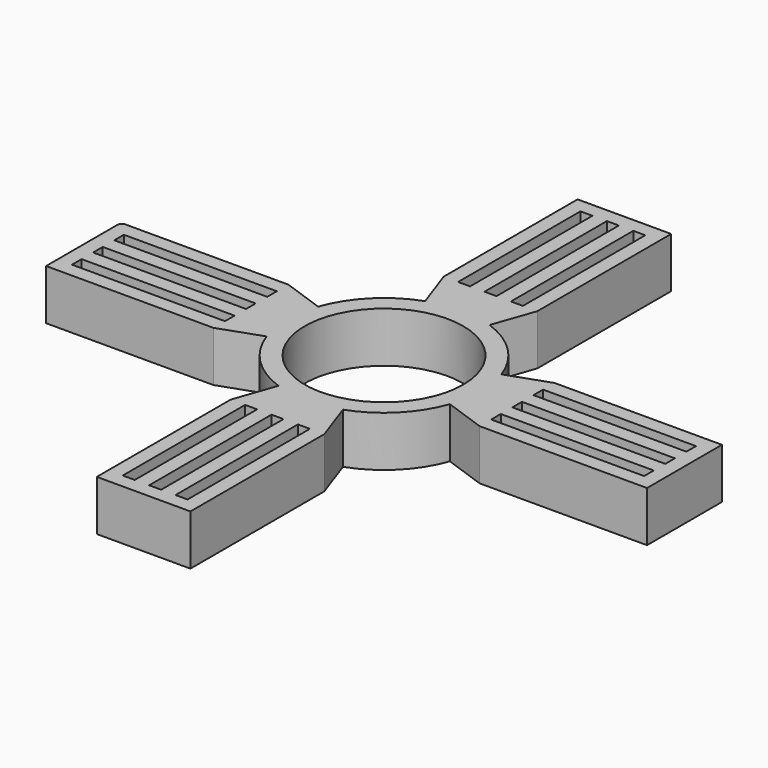
from build123d import *

# Parameters (mm, degrees)
F0_R     = 11.015
F1_DEPTH = 7
F2_DEPTH = 7
F3_DEPTH = 7
F0_W     = 2
F0_H     = 21.26
F0_W_2   = 21.26
F0_H_2   = 2
F4_DEPTH = 7


with BuildPart() as f1:
    # F0 (on Top) → F1 (new body)
    with BuildSketch(Plane.XY):
        with BuildLine():
            ThreePointArc((12.735635, 4.478125), (13.307537, 2.271445), (13.5, 0))
            Line((13.5, 0), (18.5, 0))
            Line((18.5, 0), (18.5, 0.835))
            Line((18.5, 0.835), (18.5, 2.835))
            Line((18.5, 2.835), (18.5, 4.505))
            Line((18.5, 4.505), (39.76, 4.505))
            Line((39.76, 4.505), (39.76, 6.505))
            Line((39.76, 6.505), (18.5, 6.505))
            Line((18.5, 6.505), (12.735635, 4.478125))
        make_face()
        with BuildLine():
            ThreePointArc((0, 13.5), (2.271445, 13.307537), (4.478125, 12.735635))
            Line((4.478125, 12.735635), (6.505, 18.5))
            Line((6.505, 18.5), (6.505, 39.76))
            Line((6.505, 39.76), (4.505, 39.76))
            Line((4.505, 39.76), (4.505, 18.5))
            Line((4.505, 18.5), (2.835, 18.5))
            Line((2.835, 18.5), (0.835, 18.5))
            Line((0.835, 18.5), (0, 18.5))
            Line((0, 18.5), (0, 13.5))
        make_face()
        with BuildLine():
            ThreePointArc((-4.478125, 12.735635), (-2.271445, 13.307537), (0, 13.5))
            Line((0, 13.5), (0, 18.5))
            Line((0, 18.5), (-0.835, 18.5))
            Line((-0.835, 18.5), (-2.835, 18.5))
            Line((-2.835, 18.5), (-4.505, 18.5))
            Line((-4.505, 18.5), (-4.505, 39.76))
            Line((-4.505, 39.76), (-6.505, 39.76))
            Line((-6.505, 39.76), (-6.505, 18.5))
            Line((-6.505, 18.5), (-4.478125, 12.735635))
        make_face()
        with BuildLine():
            ThreePointArc((-13.5, 0), (-13.307537, 2.271445), (-12.735635, 4.478125))
            Line((-12.735635, 4.478125), (-18.5, 6.505))
            Line((-18.5, 6.505), (-39.76, 6.505))
            Line((-39.76, 6.505), (-39.76, 4.505))
            Line((-39.76, 4.505), (-18.5, 4.505))
            Line((-18.5, 4.505), (-18.5, 2.835))
            Line((-18.5, 2.835), (-18.5, 0.835))
            Line((-18.5, 0.835), (-18.5, 0))
            Line((-18.5, 0), (-13.5, 0))
        make_face()
        with BuildLine():
            Line((-18.5, -6.505), (-12.735635, -4.478125))
            ThreePointArc((-12.735635, -4.478125), (-13.307537, -2.271445), (-13.5, 0))
            Line((-13.5, 0), (-18.5, 0))
            Line((-18.5, 0), (-18.5, -0.835))
            Line((-18.5, -0.835), (-18.5, -2.835))
            Line((-18.5, -2.835), (-18.5, -4.505))
            Line((-18.5, -4.505), (-39.76, -4.505))
            Line((-39.76, -4.505), (-39.76, -6.505))
            Line((-39.76, -6.505), (-18.5, -6.505))
        make_face()
        with BuildLine():
            Line((0, -18.5), (0, -13.5))
            ThreePointArc((0, -13.5), (-2.271445, -13.307537), (-4.478125, -12.735635))
            Line((-4.478125, -12.735635), (-6.505, -18.5))
            Line((-6.505, -18.5), (-6.505, -39.76))
            Line((-6.505, -39.76), (-4.505, -39.76))
            Line((-4.505, -39.76), (-4.505, -18.5))
            Line((-4.505, -18.5), (-2.835, -18.5))
            Line((-2.835, -18.5), (-0.835, -18.5))
            Line((-0.835, -18.5), (0, -18.5))
        make_face()
        with BuildLine():
            Line((6.505, -18.5), (4.478125, -12.735635))
            ThreePointArc((4.478125, -12.735635), (2.271445, -13.307537), (0, -13.5))
            Line((0, -13.5), (0, -18.5))
            Line((0, -18.5), (0.835, -18.5))
            Line((0.835, -18.5), (2.835, -18.5))
            Line((2.835, -18.5), (4.505, -18.5))
            Line((4.505, -18.5), (4.505, -39.76))
            Line((4.505, -39.76), (6.505, -39.76))
            Line((6.505, -39.76), (6.505, -18.5))
        make_face()
        with BuildLine():
            Line((18.5, 0), (13.5, 0))
            ThreePointArc((13.5, 0), (13.307537, -2.271445), (12.735635, -4.478125))
            Line((12.735635, -4.478125), (18.5, -6.505))
            Line((18.5, -6.505), (39.76, -6.505))
            Line((39.76, -6.505), (39.76, -4.505))
            Line((39.76, -4.505), (18.5, -4.505))
            Line((18.5, -4.505), (18.5, -2.835))
            Line((18.5, -2.835), (18.5, -0.835))
            Line((18.5, -0.835), (18.5, 0))
        make_face()
        Polygon((4.505, 39.76), (6.505, 39.76), (6.505, 41.76), (-6.505, 41.76), (-6.505, 39.76), (-4.505, 39.76), (-2.835, 39.76), (-0.835, 39.76), (0, 39.76), (0.835, 39.76), (2.835, 39.76), align=None)
        with BuildLine():
            Line((-39.76, 4.505), (-39.76, 6.505))
            Line((-39.76, 6.505), (-41.155497, 6.505))
            ThreePointArc((-41.155497, 6.505), (-41.582945, 6.327945), (-41.76, 5.900497))
            Line((-41.76, 5.900497), (-41.76, -6.505))
            Line((-41.76, -6.505), (-39.76, -6.505))
            Line((-39.76, -6.505), (-39.76, -4.505))
            Line((-39.76, -4.505), (-39.76, -2.835))
            Line((-39.76, -2.835), (-39.76, -0.835))
            Line((-39.76, -0.835), (-39.76, 0))
            Line((-39.76, 0), (-39.76, 0.835))
            Line((-39.76, 0.835), (-39.76, 2.835))
            Line((-39.76, 2.835), (-39.76, 4.505))
        make_face()
        Polygon((6.505, -41.76), (6.505, -39.76), (4.505, -39.76), (2.835, -39.76), (0.835, -39.76), (0, -39.76), (-0.835, -39.76), (-2.835, -39.76), (-4.505, -39.76), (-6.505, -39.76), (-6.505, -41.76), align=None)
        Polygon((41.76, 6.505), (39.76, 6.505), (39.76, 4.505), (39.76, 2.835), (39.76, 0.835), (39.76, 0), (39.76, -0.835), (39.76, -2.835), (39.76, -4.505), (39.76, -6.505), (41.76, -6.505), align=None)
        with BuildLine():
            ThreePointArc((12.735635, -4.478125), (13.307537, -2.271445), (13.5, 0))
            ThreePointArc((13.5, 0), (13.307537, 2.271445), (12.735635, 4.478125))
            ThreePointArc((12.735635, 4.478125), (9.545942, 9.545942), (4.478125, 12.735635))
            ThreePointArc((4.478125, 12.735635), (2.271445, 13.307537), (0, 13.5))
            ThreePointArc((0, 13.5), (-2.271445, 13.307537), (-4.478125, 12.735635))
            ThreePointArc((-4.478125, 12.735635), (-9.545942, 9.545942), (-12.735635, 4.478125))
            ThreePointArc((-12.735635, 4.478125), (-13.307537, 2.271445), (-13.5, 0))
            ThreePointArc((-13.5, 0), (-13.307537, -2.271445), (-12.735635, -4.478125))
            ThreePointArc((-12.735635, -4.478125), (-9.545942, -9.545942), (-4.478125, -12.735635))
            ThreePointArc((-4.478125, -12.735635), (-2.271445, -13.307537), (0, -13.5))
            ThreePointArc((0, -13.5), (2.271445, -13.307537), (4.478125, -12.735635))
            ThreePointArc((4.478125, -12.735635), (9.545942, -9.545942), (12.735635, -4.478125))
        make_face()
        Circle(F0_R, mode=Mode.SUBTRACT)
    extrude(amount=F1_DEPTH)

    # F0 (on Top) → F2 (join)
    with BuildSketch(Plane.XY):
        with BuildLine():
            ThreePointArc((12.735635, 4.478125), (13.307537, 2.271445), (13.5, 0))
            Line((13.5, 0), (18.5, 0))
            Line((18.5, 0), (18.5, 0.835))
            Line((18.5, 0.835), (18.5, 2.835))
            Line((18.5, 2.835), (18.5, 4.505))
            Line((18.5, 4.505), (39.76, 4.505))
            Line((39.76, 4.505), (39.76, 6.505))
            Line((39.76, 6.505), (18.5, 6.505))
            Line((18.5, 6.505), (12.735635, 4.478125))
        make_face()
        with BuildLine():
            ThreePointArc((0, 13.5), (2.271445, 13.307537), (4.478125, 12.735635))
            Line((4.478125, 12.735635), (6.505, 18.5))
            Line((6.505, 18.5), (6.505, 39.76))
            Line((6.505, 39.76), (4.505, 39.76))
            Line((4.505, 39.76), (4.505, 18.5))
            Line((4.505, 18.5), (2.835, 18.5))
            Line((2.835, 18.5), (0.835, 18.5))
            Line((0.835, 18.5), (0, 18.5))
            Line((0, 18.5), (0, 13.5))
        make_face()
        with BuildLine():
            ThreePointArc((-4.478125, 12.735635), (-2.271445, 13.307537), (0, 13.5))
            Line((0, 13.5), (0, 18.5))
            Line((0, 18.5), (-0.835, 18.5))
            Line((-0.835, 18.5), (-2.835, 18.5))
            Line((-2.835, 18.5), (-4.505, 18.5))
            Line((-4.505, 18.5), (-4.505, 39.76))
            Line((-4.505, 39.76), (-6.505, 39.76))
            Line((-6.505, 39.76), (-6.505, 18.5))
            Line((-6.505, 18.5), (-4.478125, 12.735635))
        make_face()
        with BuildLine():
            ThreePointArc((-13.5, 0), (-13.307537, 2.271445), (-12.735635, 4.478125))
            Line((-12.735635, 4.478125), (-18.5, 6.505))
            Line((-18.5, 6.505), (-39.76, 6.505))
            Line((-39.76, 6.505), (-39.76, 4.505))
            Line((-39.76, 4.505), (-18.5, 4.505))
            Line((-18.5, 4.505), (-18.5, 2.835))
            Line((-18.5, 2.835), (-18.5, 0.835))
            Line((-18.5, 0.835), (-18.5, 0))
            Line((-18.5, 0), (-13.5, 0))
        make_face()
        with BuildLine():
            Line((-18.5, -6.505), (-12.735635, -4.478125))
            ThreePointArc((-12.735635, -4.478125), (-13.307537, -2.271445), (-13.5, 0))
            Line((-13.5, 0), (-18.5, 0))
            Line((-18.5, 0), (-18.5, -0.835))
            Line((-18.5, -0.835), (-18.5, -2.835))
            Line((-18.5, -2.835), (-18.5, -4.505))
            Line((-18.5, -4.505), (-39.76, -4.505))
            Line((-39.76, -4.505), (-39.76, -6.505))
            Line((-39.76, -6.505), (-18.5, -6.505))
        make_face()
        with BuildLine():
            Line((0, -18.5), (0, -13.5))
            ThreePointArc((0, -13.5), (-2.271445, -13.307537), (-4.478125, -12.735635))
            Line((-4.478125, -12.735635), (-6.505, -18.5))
            Line((-6.505, -18.5), (-6.505, -39.76))
            Line((-6.505, -39.76), (-4.505, -39.76))
            Line((-4.505, -39.76), (-4.505, -18.5))
            Line((-4.505, -18.5), (-2.835, -18.5))
            Line((-2.835, -18.5), (-0.835, -18.5))
            Line((-0.835, -18.5), (0, -18.5))
        make_face()
        with BuildLine():
            Line((6.505, -18.5), (4.478125, -12.735635))
            ThreePointArc((4.478125, -12.735635), (2.271445, -13.307537), (0, -13.5))
            Line((0, -13.5), (0, -18.5))
            Line((0, -18.5), (0.835, -18.5))
            Line((0.835, -18.5), (2.835, -18.5))
            Line((2.835, -18.5), (4.505, -18.5))
            Line((4.505, -18.5), (4.505, -39.76))
            Line((4.505, -39.76), (6.505, -39.76))
            Line((6.505, -39.76), (6.505, -18.5))
        make_face()
        with BuildLine():
            Line((18.5, 0), (13.5, 0))
            ThreePointArc((13.5, 0), (13.307537, -2.271445), (12.735635, -4.478125))
            Line((12.735635, -4.478125), (18.5, -6.505))
            Line((18.5, -6.505), (39.76, -6.505))
            Line((39.76, -6.505), (39.76, -4.505))
            Line((39.76, -4.505), (18.5, -4.505))
            Line((18.5, -4.505), (18.5, -2.835))
            Line((18.5, -2.835), (18.5, -0.835))
            Line((18.5, -0.835), (18.5, 0))
        make_face()
        Polygon((4.505, 39.76), (6.505, 39.76), (6.505, 41.76), (-6.505, 41.76), (-6.505, 39.76), (-4.505, 39.76), (-2.835, 39.76), (-0.835, 39.76), (0, 39.76), (0.835, 39.76), (2.835, 39.76), align=None)
        with BuildLine():
            Line((-39.76, 4.505), (-39.76, 6.505))
            Line((-39.76, 6.505), (-41.155497, 6.505))
            ThreePointArc((-41.155497, 6.505), (-41.582945, 6.327945), (-41.76, 5.900497))
            Line((-41.76, 5.900497), (-41.76, -6.505))
            Line((-41.76, -6.505), (-39.76, -6.505))
            Line((-39.76, -6.505), (-39.76, -4.505))
            Line((-39.76, -4.505), (-39.76, -2.835))
            Line((-39.76, -2.835), (-39.76, -0.835))
            Line((-39.76, -0.835), (-39.76, 0))
            Line((-39.76, 0), (-39.76, 0.835))
            Line((-39.76, 0.835), (-39.76, 2.835))
            Line((-39.76, 2.835), (-39.76, 4.505))
        make_face()
        Polygon((6.505, -41.76), (6.505, -39.76), (4.505, -39.76), (2.835, -39.76), (0.835, -39.76), (0, -39.76), (-0.835, -39.76), (-2.835, -39.76), (-4.505, -39.76), (-6.505, -39.76), (-6.505, -41.76), align=None)
        Polygon((41.76, 6.505), (39.76, 6.505), (39.76, 4.505), (39.76, 2.835), (39.76, 0.835), (39.76, 0), (39.76, -0.835), (39.76, -2.835), (39.76, -4.505), (39.76, -6.505), (41.76, -6.505), align=None)
        with BuildLine():
            ThreePointArc((12.735635, -4.478125), (13.307537, -2.271445), (13.5, 0))
            ThreePointArc((13.5, 0), (13.307537, 2.271445), (12.735635, 4.478125))
            ThreePointArc((12.735635, 4.478125), (9.545942, 9.545942), (4.478125, 12.735635))
            ThreePointArc((4.478125, 12.735635), (2.271445, 13.307537), (0, 13.5))
            ThreePointArc((0, 13.5), (-2.271445, 13.307537), (-4.478125, 12.735635))
            ThreePointArc((-4.478125, 12.735635), (-9.545942, 9.545942), (-12.735635, 4.478125))
            ThreePointArc((-12.735635, 4.478125), (-13.307537, 2.271445), (-13.5, 0))
            ThreePointArc((-13.5, 0), (-13.307537, -2.271445), (-12.735635, -4.478125))
            ThreePointArc((-12.735635, -4.478125), (-9.545942, -9.545942), (-4.478125, -12.735635))
            ThreePointArc((-4.478125, -12.735635), (-2.271445, -13.307537), (0, -13.5))
            ThreePointArc((0, -13.5), (2.271445, -13.307537), (4.478125, -12.735635))
            ThreePointArc((4.478125, -12.735635), (9.545942, -9.545942), (12.735635, -4.478125))
        make_face()
        Circle(F0_R, mode=Mode.SUBTRACT)
    extrude(amount=F2_DEPTH)

    # F0 (on Top) → F3 (join)
    with BuildSketch(Plane.XY):
        with BuildLine():
            ThreePointArc((12.735635, 4.478125), (13.307537, 2.271445), (13.5, 0))
            Line((13.5, 0), (18.5, 0))
            Line((18.5, 0), (18.5, 0.835))
            Line((18.5, 0.835), (18.5, 2.835))
            Line((18.5, 2.835), (18.5, 4.505))
            Line((18.5, 4.505), (39.76, 4.505))
            Line((39.76, 4.505), (39.76, 6.505))
            Line((39.76, 6.505), (18.5, 6.505))
            Line((18.5, 6.505), (12.735635, 4.478125))
        make_face()
        with BuildLine():
            ThreePointArc((0, 13.5), (2.271445, 13.307537), (4.478125, 12.735635))
            Line((4.478125, 12.735635), (6.505, 18.5))
            Line((6.505, 18.5), (6.505, 39.76))
            Line((6.505, 39.76), (4.505, 39.76))
            Line((4.505, 39.76), (4.505, 18.5))
            Line((4.505, 18.5), (2.835, 18.5))
            Line((2.835, 18.5), (0.835, 18.5))
            Line((0.835, 18.5), (0, 18.5))
            Line((0, 18.5), (0, 13.5))
        make_face()
        with BuildLine():
            ThreePointArc((-4.478125, 12.735635), (-2.271445, 13.307537), (0, 13.5))
            Line((0, 13.5), (0, 18.5))
            Line((0, 18.5), (-0.835, 18.5))
            Line((-0.835, 18.5), (-2.835, 18.5))
            Line((-2.835, 18.5), (-4.505, 18.5))
            Line((-4.505, 18.5), (-4.505, 39.76))
            Line((-4.505, 39.76), (-6.505, 39.76))
            Line((-6.505, 39.76), (-6.505, 18.5))
            Line((-6.505, 18.5), (-4.478125, 12.735635))
        make_face()
        with BuildLine():
            ThreePointArc((-13.5, 0), (-13.307537, 2.271445), (-12.735635, 4.478125))
            Line((-12.735635, 4.478125), (-18.5, 6.505))
            Line((-18.5, 6.505), (-39.76, 6.505))
            Line((-39.76, 6.505), (-39.76, 4.505))
            Line((-39.76, 4.505), (-18.5, 4.505))
            Line((-18.5, 4.505), (-18.5, 2.835))
            Line((-18.5, 2.835), (-18.5, 0.835))
            Line((-18.5, 0.835), (-18.5, 0))
            Line((-18.5, 0), (-13.5, 0))
        make_face()
        with BuildLine():
            Line((-18.5, -6.505), (-12.735635, -4.478125))
            ThreePointArc((-12.735635, -4.478125), (-13.307537, -2.271445), (-13.5, 0))
            Line((-13.5, 0), (-18.5, 0))
            Line((-18.5, 0), (-18.5, -0.835))
            Line((-18.5, -0.835), (-18.5, -2.835))
            Line((-18.5, -2.835), (-18.5, -4.505))
            Line((-18.5, -4.505), (-39.76, -4.505))
            Line((-39.76, -4.505), (-39.76, -6.505))
            Line((-39.76, -6.505), (-18.5, -6.505))
        make_face()
        with BuildLine():
            Line((0, -18.5), (0, -13.5))
            ThreePointArc((0, -13.5), (-2.271445, -13.307537), (-4.478125, -12.735635))
            Line((-4.478125, -12.735635), (-6.505, -18.5))
            Line((-6.505, -18.5), (-6.505, -39.76))
            Line((-6.505, -39.76), (-4.505, -39.76))
            Line((-4.505, -39.76), (-4.505, -18.5))
            Line((-4.505, -18.5), (-2.835, -18.5))
            Line((-2.835, -18.5), (-0.835, -18.5))
            Line((-0.835, -18.5), (0, -18.5))
        make_face()
        with BuildLine():
            Line((6.505, -18.5), (4.478125, -12.735635))
            ThreePointArc((4.478125, -12.735635), (2.271445, -13.307537), (0, -13.5))
            Line((0, -13.5), (0, -18.5))
            Line((0, -18.5), (0.835, -18.5))
            Line((0.835, -18.5), (2.835, -18.5))
            Line((2.835, -18.5), (4.505, -18.5))
            Line((4.505, -18.5), (4.505, -39.76))
            Line((4.505, -39.76), (6.505, -39.76))
            Line((6.505, -39.76), (6.505, -18.5))
        make_face()
        with BuildLine():
            Line((18.5, 0), (13.5, 0))
            ThreePointArc((13.5, 0), (13.307537, -2.271445), (12.735635, -4.478125))
            Line((12.735635, -4.478125), (18.5, -6.505))
            Line((18.5, -6.505), (39.76, -6.505))
            Line((39.76, -6.505), (39.76, -4.505))
            Line((39.76, -4.505), (18.5, -4.505))
            Line((18.5, -4.505), (18.5, -2.835))
            Line((18.5, -2.835), (18.5, -0.835))
            Line((18.5, -0.835), (18.5, 0))
        make_face()
        Polygon((4.505, 39.76), (6.505, 39.76), (6.505, 41.76), (-6.505, 41.76), (-6.505, 39.76), (-4.505, 39.76), (-2.835, 39.76), (-0.835, 39.76), (0, 39.76), (0.835, 39.76), (2.835, 39.76), align=None)
        with BuildLine():
            Line((-39.76, 4.505), (-39.76, 6.505))
            Line((-39.76, 6.505), (-41.155497, 6.505))
            ThreePointArc((-41.155497, 6.505), (-41.582945, 6.327945), (-41.76, 5.900497))
            Line((-41.76, 5.900497), (-41.76, -6.505))
            Line((-41.76, -6.505), (-39.76, -6.505))
            Line((-39.76, -6.505), (-39.76, -4.505))
            Line((-39.76, -4.505), (-39.76, -2.835))
            Line((-39.76, -2.835), (-39.76, -0.835))
            Line((-39.76, -0.835), (-39.76, 0))
            Line((-39.76, 0), (-39.76, 0.835))
            Line((-39.76, 0.835), (-39.76, 2.835))
            Line((-39.76, 2.835), (-39.76, 4.505))
        make_face()
        Polygon((6.505, -41.76), (6.505, -39.76), (4.505, -39.76), (2.835, -39.76), (0.835, -39.76), (0, -39.76), (-0.835, -39.76), (-2.835, -39.76), (-4.505, -39.76), (-6.505, -39.76), (-6.505, -41.76), align=None)
        Polygon((41.76, 6.505), (39.76, 6.505), (39.76, 4.505), (39.76, 2.835), (39.76, 0.835), (39.76, 0), (39.76, -0.835), (39.76, -2.835), (39.76, -4.505), (39.76, -6.505), (41.76, -6.505), align=None)
        with BuildLine():
            ThreePointArc((12.735635, -4.478125), (13.307537, -2.271445), (13.5, 0))
            ThreePointArc((13.5, 0), (13.307537, 2.271445), (12.735635, 4.478125))
            ThreePointArc((12.735635, 4.478125), (9.545942, 9.545942), (4.478125, 12.735635))
            ThreePointArc((4.478125, 12.735635), (2.271445, 13.307537), (0, 13.5))
            ThreePointArc((0, 13.5), (-2.271445, 13.307537), (-4.478125, 12.735635))
            ThreePointArc((-4.478125, 12.735635), (-9.545942, 9.545942), (-12.735635, 4.478125))
            ThreePointArc((-12.735635, 4.478125), (-13.307537, 2.271445), (-13.5, 0))
            ThreePointArc((-13.5, 0), (-13.307537, -2.271445), (-12.735635, -4.478125))
            ThreePointArc((-12.735635, -4.478125), (-9.545942, -9.545942), (-4.478125, -12.735635))
            ThreePointArc((-4.478125, -12.735635), (-2.271445, -13.307537), (0, -13.5))
            ThreePointArc((0, -13.5), (2.271445, -13.307537), (4.478125, -12.735635))
            ThreePointArc((4.478125, -12.735635), (9.545942, -9.545942), (12.735635, -4.478125))
        make_face()
        Circle(F0_R, mode=Mode.SUBTRACT)
    extrude(amount=F3_DEPTH)

    # F0 (on Top) → F4 (join)
    with BuildSketch(Plane.XY):
        with BuildLine():
            ThreePointArc((12.735635, 4.478125), (13.307537, 2.271445), (13.5, 0))
            Line((13.5, 0), (18.5, 0))
            Line((18.5, 0), (18.5, 0.835))
            Line((18.5, 0.835), (18.5, 2.835))
            Line((18.5, 2.835), (18.5, 4.505))
            Line((18.5, 4.505), (39.76, 4.505))
            Line((39.76, 4.505), (39.76, 6.505))
            Line((39.76, 6.505), (18.5, 6.505))
            Line((18.5, 6.505), (12.735635, 4.478125))
        make_face()
        with BuildLine():
            ThreePointArc((0, 13.5), (2.271445, 13.307537), (4.478125, 12.735635))
            Line((4.478125, 12.735635), (6.505, 18.5))
            Line((6.505, 18.5), (6.505, 39.76))
            Line((6.505, 39.76), (4.505, 39.76))
            Line((4.505, 39.76), (4.505, 18.5))
            Line((4.505, 18.5), (2.835, 18.5))
            Line((2.835, 18.5), (0.835, 18.5))
            Line((0.835, 18.5), (0, 18.5))
            Line((0, 18.5), (0, 13.5))
        make_face()
        with BuildLine():
            ThreePointArc((-4.478125, 12.735635), (-2.271445, 13.307537), (0, 13.5))
            Line((0, 13.5), (0, 18.5))
            Line((0, 18.5), (-0.835, 18.5))
            Line((-0.835, 18.5), (-2.835, 18.5))
            Line((-2.835, 18.5), (-4.505, 18.5))
            Line((-4.505, 18.5), (-4.505, 39.76))
            Line((-4.505, 39.76), (-6.505, 39.76))
            Line((-6.505, 39.76), (-6.505, 18.5))
            Line((-6.505, 18.5), (-4.478125, 12.735635))
        make_face()
        with BuildLine():
            ThreePointArc((-13.5, 0), (-13.307537, 2.271445), (-12.735635, 4.478125))
            Line((-12.735635, 4.478125), (-18.5, 6.505))
            Line((-18.5, 6.505), (-39.76, 6.505))
            Line((-39.76, 6.505), (-39.76, 4.505))
            Line((-39.76, 4.505), (-18.5, 4.505))
            Line((-18.5, 4.505), (-18.5, 2.835))
            Line((-18.5, 2.835), (-18.5, 0.835))
            Line((-18.5, 0.835), (-18.5, 0))
            Line((-18.5, 0), (-13.5, 0))
        make_face()
        with BuildLine():
            Line((-18.5, -6.505), (-12.735635, -4.478125))
            ThreePointArc((-12.735635, -4.478125), (-13.307537, -2.271445), (-13.5, 0))
            Line((-13.5, 0), (-18.5, 0))
            Line((-18.5, 0), (-18.5, -0.835))
            Line((-18.5, -0.835), (-18.5, -2.835))
            Line((-18.5, -2.835), (-18.5, -4.505))
            Line((-18.5, -4.505), (-39.76, -4.505))
            Line((-39.76, -4.505), (-39.76, -6.505))
            Line((-39.76, -6.505), (-18.5, -6.505))
        make_face()
        with BuildLine():
            Line((0, -18.5), (0, -13.5))
            ThreePointArc((0, -13.5), (-2.271445, -13.307537), (-4.478125, -12.735635))
            Line((-4.478125, -12.735635), (-6.505, -18.5))
            Line((-6.505, -18.5), (-6.505, -39.76))
            Line((-6.505, -39.76), (-4.505, -39.76))
            Line((-4.505, -39.76), (-4.505, -18.5))
            Line((-4.505, -18.5), (-2.835, -18.5))
            Line((-2.835, -18.5), (-0.835, -18.5))
            Line((-0.835, -18.5), (0, -18.5))
        make_face()
        with BuildLine():
            Line((6.505, -18.5), (4.478125, -12.735635))
            ThreePointArc((4.478125, -12.735635), (2.271445, -13.307537), (0, -13.5))
            Line((0, -13.5), (0, -18.5))
            Line((0, -18.5), (0.835, -18.5))
            Line((0.835, -18.5), (2.835, -18.5))
            Line((2.835, -18.5), (4.505, -18.5))
            Line((4.505, -18.5), (4.505, -39.76))
            Line((4.505, -39.76), (6.505, -39.76))
            Line((6.505, -39.76), (6.505, -18.5))
        make_face()
        with BuildLine():
            Line((18.5, 0), (13.5, 0))
            ThreePointArc((13.5, 0), (13.307537, -2.271445), (12.735635, -4.478125))
            Line((12.735635, -4.478125), (18.5, -6.505))
            Line((18.5, -6.505), (39.76, -6.505))
            Line((39.76, -6.505), (39.76, -4.505))
            Line((39.76, -4.505), (18.5, -4.505))
            Line((18.5, -4.505), (18.5, -2.835))
            Line((18.5, -2.835), (18.5, -0.835))
            Line((18.5, -0.835), (18.5, 0))
        make_face()
        Polygon((4.505, 39.76), (6.505, 39.76), (6.505, 41.76), (-6.505, 41.76), (-6.505, 39.76), (-4.505, 39.76), (-2.835, 39.76), (-0.835, 39.76), (0, 39.76), (0.835, 39.76), (2.835, 39.76), align=None)
        with BuildLine():
            Line((-39.76, 4.505), (-39.76, 6.505))
            Line((-39.76, 6.505), (-41.155497, 6.505))
            ThreePointArc((-41.155497, 6.505), (-41.582945, 6.327945), (-41.76, 5.900497))
            Line((-41.76, 5.900497), (-41.76, -6.505))
            Line((-41.76, -6.505), (-39.76, -6.505))
            Line((-39.76, -6.505), (-39.76, -4.505))
            Line((-39.76, -4.505), (-39.76, -2.835))
            Line((-39.76, -2.835), (-39.76, -0.835))
            Line((-39.76, -0.835), (-39.76, 0))
            Line((-39.76, 0), (-39.76, 0.835))
            Line((-39.76, 0.835), (-39.76, 2.835))
            Line((-39.76, 2.835), (-39.76, 4.505))
        make_face()
        Polygon((6.505, -41.76), (6.505, -39.76), (4.505, -39.76), (2.835, -39.76), (0.835, -39.76), (0, -39.76), (-0.835, -39.76), (-2.835, -39.76), (-4.505, -39.76), (-6.505, -39.76), (-6.505, -41.76), align=None)
        Polygon((41.76, 6.505), (39.76, 6.505), (39.76, 4.505), (39.76, 2.835), (39.76, 0.835), (39.76, 0), (39.76, -0.835), (39.76, -2.835), (39.76, -4.505), (39.76, -6.505), (41.76, -6.505), align=None)
        with BuildLine():
            ThreePointArc((12.735635, -4.478125), (13.307537, -2.271445), (13.5, 0))
            ThreePointArc((13.5, 0), (13.307537, 2.271445), (12.735635, 4.478125))
            ThreePointArc((12.735635, 4.478125), (9.545942, 9.545942), (4.478125, 12.735635))
            ThreePointArc((4.478125, 12.735635), (2.271445, 13.307537), (0, 13.5))
            ThreePointArc((0, 13.5), (-2.271445, 13.307537), (-4.478125, 12.735635))
            ThreePointArc((-4.478125, 12.735635), (-9.545942, 9.545942), (-12.735635, 4.478125))
            ThreePointArc((-12.735635, 4.478125), (-13.307537, 2.271445), (-13.5, 0))
            ThreePointArc((-13.5, 0), (-13.307537, -2.271445), (-12.735635, -4.478125))
            ThreePointArc((-12.735635, -4.478125), (-9.545942, -9.545942), (-4.478125, -12.735635))
            ThreePointArc((-4.478125, -12.735635), (-2.271445, -13.307537), (0, -13.5))
            ThreePointArc((0, -13.5), (2.271445, -13.307537), (4.478125, -12.735635))
            ThreePointArc((4.478125, -12.735635), (9.545942, -9.545942), (12.735635, -4.478125))
        make_face()
        Circle(F0_R, mode=Mode.SUBTRACT)
        with Locations((-1.835, 29.13)):
            Rectangle(F0_W, F0_H)
        with Locations((1.835, 29.13)):
            Rectangle(F0_W, F0_H)
        with Locations((29.13, 1.835)):
            Rectangle(F0_W_2, F0_H_2)
        with Locations((29.13, -1.835)):
            Rectangle(F0_W_2, F0_H_2)
        with Locations((-29.13, 1.835)):
            Rectangle(F0_W_2, F0_H_2)
        with Locations((-29.13, -1.835)):
            Rectangle(F0_W_2, F0_H_2)
        with Locations((-1.835, -29.13)):
            Rectangle(F0_W, F0_H)
        with Locations((1.835, -29.13)):
            Rectangle(F0_W, F0_H)
    extrude(amount=F4_DEPTH)


solid = f1.part
